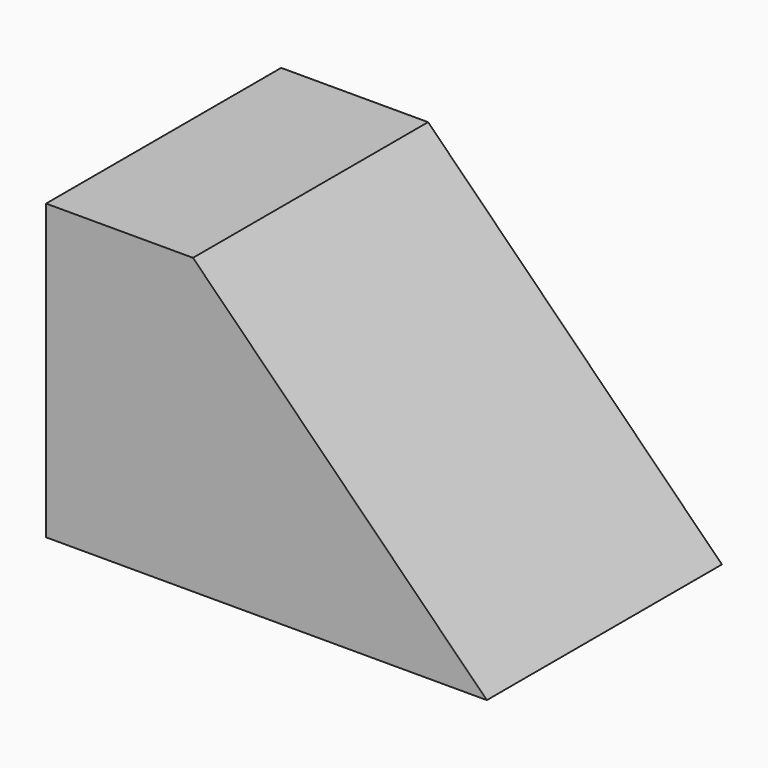
from build123d import *

# Parameters (mm, degrees)
F0_W     = 25.4
F0_H     = 25.4
F1_DEPTH = 50.8


with BuildPart() as f1:
    # F0 (on Front) → F1 (new body)
    with BuildSketch(Plane.XZ):
        Polygon((0, 25.4), (0, 0), (76.2, 0), (25.4, 25.4), align=None)
        Polygon((25.4, 25.4), (76.2, 0), (25.4, 50.8), align=None)
        with Locations((12.7, 38.1)):
            Rectangle(F0_W, F0_H)
    extrude(amount=F1_DEPTH)


solid = f1.part
